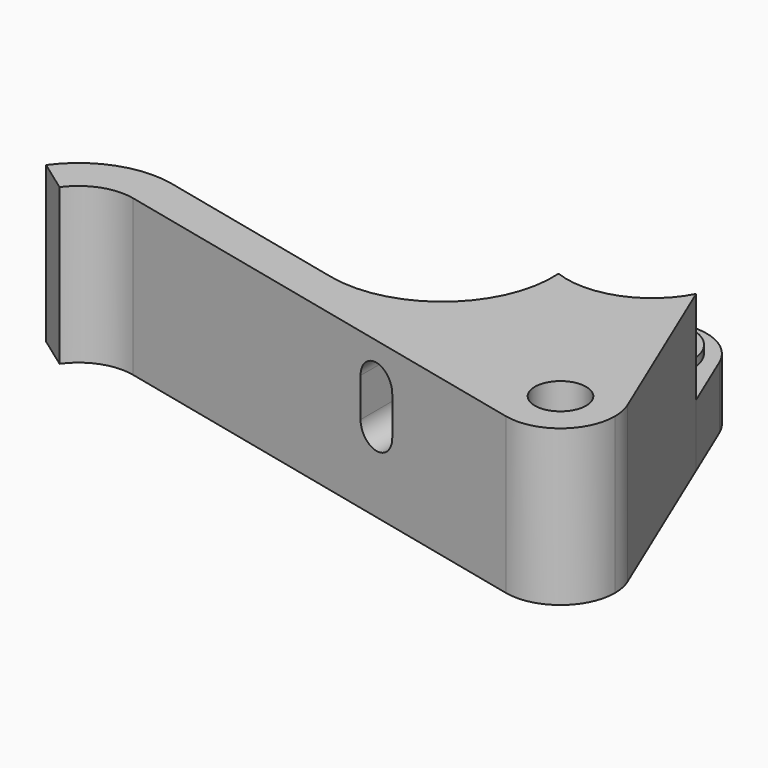
from build123d import *

# Parameters (mm, degrees)
F0_R          = 1.65
F1_DEPTH      = 10
F0_R_2        = 2.6
F2_DEPTH      = 4
F0_R_3        = 2
F3_DEPTH      = 4.5
F5_R          = 3
F6_DEPTH      = 2
F6_TAPER      = 45
F6_DEPTH_BACK = 2
F6_TAPER_BACK = -45
F7_DEPTH      = 25
F5_W          = 2
F5_H          = 1.75
F8_DEPTH      = 25


with BuildPart() as f1:
    # F0 (on Top) → F1 (new body)
    with BuildSketch(Plane.XY):
        with BuildLine():
            ThreePointArc((14.7096774194, -18.9096026482), (12.824730257, -13.2432475097), (18.7276803364, -14.1464566331))
            Line((18.7276803364, -14.1464566331), (13.8684226679, -2.5589960389))
            ThreePointArc((13.8684226679, -2.5589960389), (10.9739243006, -5.1335779779), (7.1001902802, -5.1614652017))
            ThreePointArc((7.1001902802, -5.1614652017), (4.6080160796, -11.0514527236), (-1.6067478385, -12.5612853954))
            Line((-1.6067478385, -12.5612853954), (-14.1451612903, -9.6549668888))
            ThreePointArc((-14.1451612903, -9.6549668888), (-17.6142039843, -9.8848293425), (-20.3733971724, -12))
            Line((-20.3733971724, -12), (-18.3428150172, -13.4583333333))
            ThreePointArc((-18.3428150172, -13.4583333333), (-16.7332856575, -12.2244837831), (-14.7096774194, -12.0903973518))
            Line((-14.7096774194, -12.0903973518), (14.7096774194, -18.9096026482))
        make_face()
        with BuildLine():
            ThreePointArc((14.7096774194, -18.9096026482), (17.6775985589, -18.2400847644), (19, -15.5))
            ThreePointArc((19, -15.5), (18.9312447579, -14.8096671735), (18.7276803364, -14.1464566331))
            ThreePointArc((18.7276803364, -14.1464566331), (12.824730257, -13.2432475097), (14.7096774194, -18.9096026482))
        make_face()
        with Locations((15.5, -15.5)):
            Circle(F0_R, mode=Mode.SUBTRACT)
    extrude(amount=F1_DEPTH)

    # F0 (on Top) → F2 (join)
    with BuildSketch(Plane.XY):
        with BuildLine():
            ThreePointArc((7.1001902802, -5.1614652017), (10.9739243006, -5.1335779779), (13.8684226679, -2.5589960389))
            Line((13.8684226679, -2.5589960389), (12.2276803364, 1.3535433669))
            ThreePointArc((12.2276803364, 1.3535433669), (7.3899296254, 3.1076797436), (6.0326682233, -1.856055529))
            ThreePointArc((6.0326682233, -1.856055529), (6.7712204508, -3.4426205691), (7.1001902802, -5.1614652017))
        make_face()
        with Locations((9, 0)):
            Circle(F0_R_2, mode=Mode.SUBTRACT)
    extrude(amount=F2_DEPTH)

    # F0 (on Top) → F3 (join)
    with BuildSketch(Plane.XY):
        with Locations((9, 0)):
            Circle(F0_R_2)
        with Locations((9, 0)):
            Circle(F0_R_3, mode=Mode.SUBTRACT)
    extrude(amount=F3_DEPTH)

    # F5 (on offset) → F6 (join, two sides)
    with BuildSketch(Plane.XZ.offset(9.5)) as f6_sk:
        with Locations((-15.5, 5)):
            Circle(F5_R)
    extrude(amount=-F6_DEPTH, taper=F6_TAPER)
    extrude(f6_sk.sketch, amount=F6_DEPTH_BACK, taper=F6_TAPER_BACK)

    # F5 (on offset) → F7 (cut)
    with BuildSketch(Plane.XZ.offset(9.5)):
        with BuildLine():
            ThreePointArc((4.5000000108, 6.25), (3.6161165273, 5.8838834803), (3.25, 5))
            ThreePointArc((3.25, 5), (4.5, 3.75), (5.75, 5))
            ThreePointArc((5.75, 5), (5.3838834803, 5.8838834727), (4.5000000108, 6.25))
        make_face()
        with BuildLine():
            ThreePointArc((3.25, 7.5), (3.6161165273, 6.6161165197), (4.5000000108, 6.25))
            ThreePointArc((4.5000000108, 6.25), (5.3838834803, 6.6161165273), (5.75, 7.5))
            ThreePointArc((5.75, 7.5), (4.5, 8.75), (3.25, 7.5))
        make_face()
        with BuildLine():
            Line((3.25, 7.5), (3.25, 5))
            ThreePointArc((3.25, 5), (3.6161165273, 5.8838834803), (4.5000000108, 6.25))
            ThreePointArc((4.5000000108, 6.25), (3.6161165273, 6.6161165197), (3.25, 7.5))
        make_face()
        with BuildLine():
            ThreePointArc((4.5000000108, 6.25), (5.3838834803, 5.8838834727), (5.75, 5))
            Line((5.75, 5), (5.75, 7.5))
            ThreePointArc((5.75, 7.5), (5.3838834803, 6.6161165273), (4.5000000108, 6.25))
        make_face()
    extrude(amount=F7_DEPTH, mode=Mode.SUBTRACT)

    # F5 (on offset) → F8 (cut)
    with BuildSketch(Plane.XZ.offset(9.5)):
        with Locations((5.5, 0.875)):
            Rectangle(F5_W, F5_H)
    extrude(amount=-F8_DEPTH, mode=Mode.SUBTRACT)


solid = f1.part
